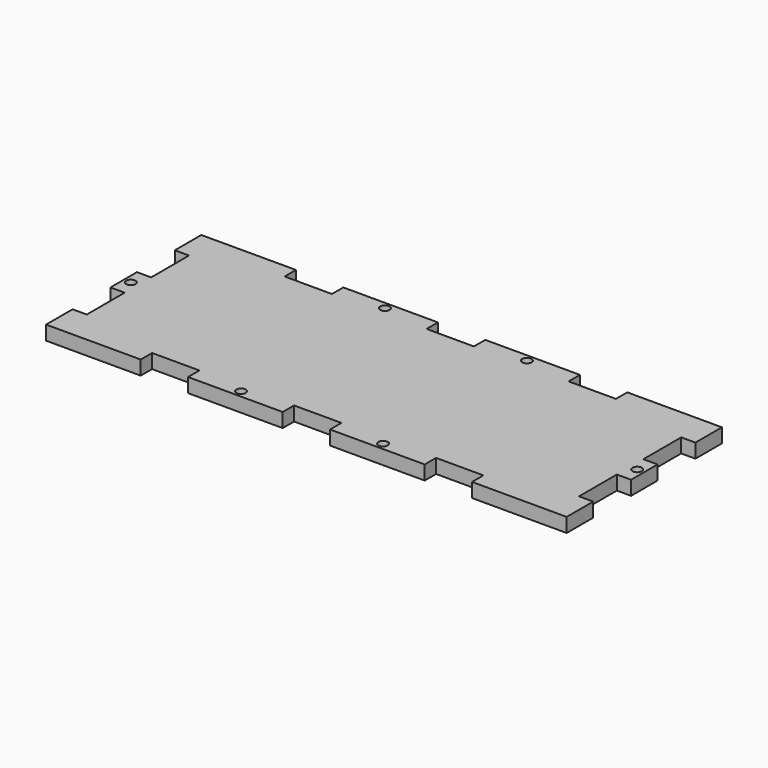
from build123d import *

# Parameters (mm, degrees)
F0_R     = 1
F1_DEPTH = 1.5


with BuildPart() as f1:
    # F0 (on Top) → F1 (new body, symmetric)
    with BuildSketch(Plane.XY):
        Polygon((0, 7), (0, 0), (20, 0), (20, 3), (30, 3), (30, 0), (50, 0), (50, 3), (55, 3), (60, 3), (60, 0), (80, 0), (80, 3), (90, 3), (90, 0), (110, 0), (110, 7), (107, 7), (107, 17), (110, 17), (110, 24), (107, 24), (107, 34), (110, 34), (110, 41), (90, 41), (90, 38), (80, 38), (80, 41), (60, 41), (60, 38), (55, 38), (50, 38), (50, 41), (30, 41), (30, 38), (20, 38), (20, 41), (0, 41), (0, 34), (3, 34), (3, 24), (0, 24), (0, 17), (3, 17), (3, 7), align=None)
        with Locations((40, 1.5)):
            Circle(F0_R, mode=Mode.SUBTRACT)
        with Locations((70, 1.5)):
            Circle(F0_R, mode=Mode.SUBTRACT)
        with Locations((1.5, 20.5)):
            Circle(F0_R, mode=Mode.SUBTRACT)
        with Locations((40, 39.5)):
            Circle(F0_R, mode=Mode.SUBTRACT)
        with Locations((108.5, 20.5)):
            Circle(F0_R, mode=Mode.SUBTRACT)
        with Locations((70, 39.5)):
            Circle(F0_R, mode=Mode.SUBTRACT)
    extrude(amount=F1_DEPTH, both=True)


solid = f1.part
